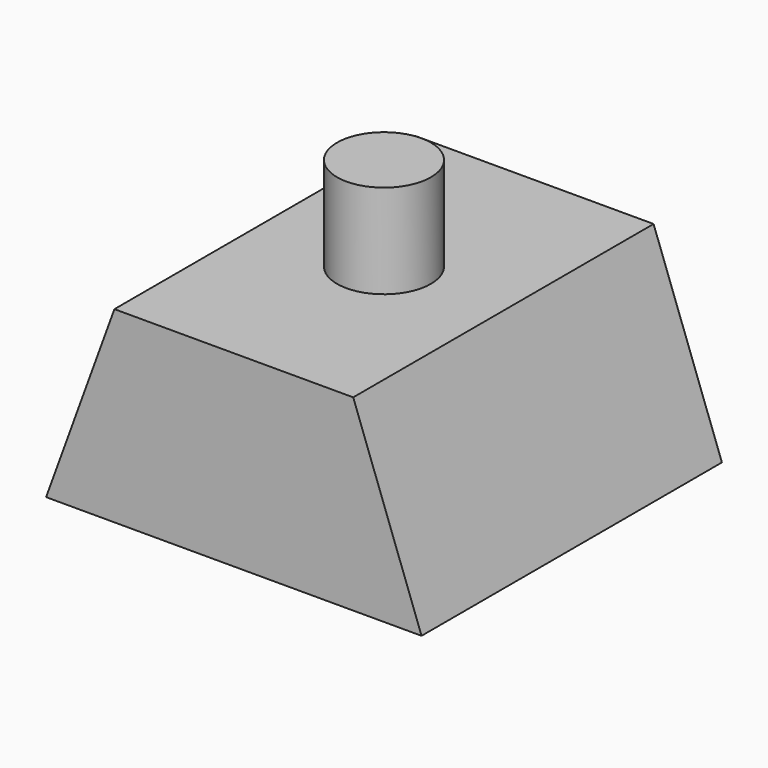
from build123d import *

# Parameters (mm, degrees)
F1_DEPTH = 20
F2_R     = 2.5
F3_DEPTH = 5


with BuildPart() as f1:
    # F0 (on Front) → F1 (new body)
    with BuildSketch(Plane.XZ):
        Polygon((-20, 0), (0, 0), (-3.64, 10), (-16.36, 10), align=None)
    extrude(amount=F1_DEPTH)

    # F2 (on face) → F3 (join)
    with BuildSketch(Plane.XY.offset(10)):
        with Locations((-10, -10)):
            Circle(F2_R)
    extrude(amount=F3_DEPTH)


solid = f1.part
